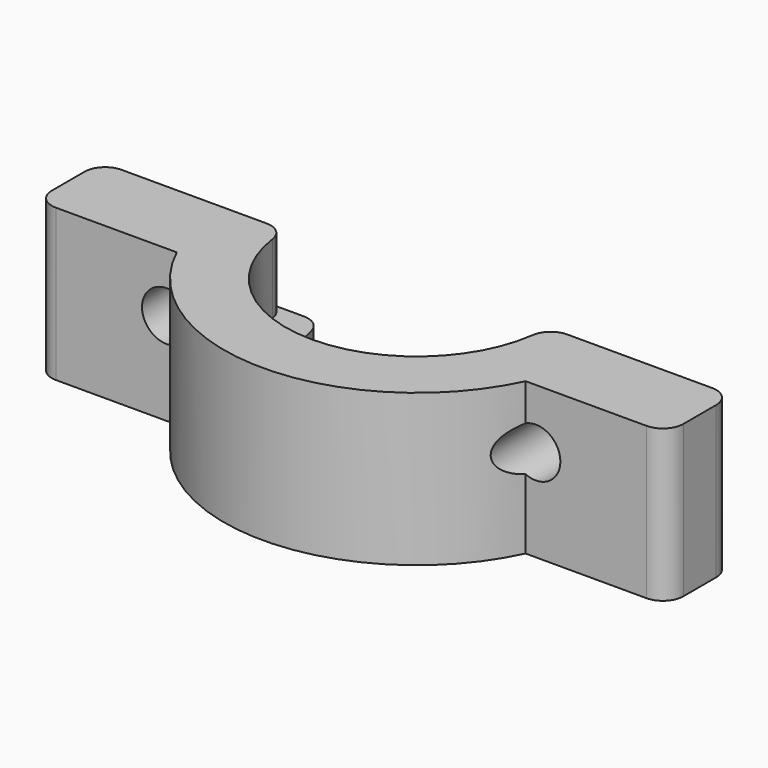
from build123d import *

# Parameters (mm, degrees)
F1_DEPTH = 9.398
F2_DEPTH = 5.08
F3_R     = 1.524
F4_DEPTH = 6.6633576407
F5_R     = 1.27


with BuildPart() as f1:
    # F0 (on Top) → F1 (new body)
    with BuildSketch(Plane.XY):
        with BuildLine():
            ThreePointArc((-10.8032145216, -5.08), (-11.6508501612, -2.6026014909), (-11.938, 0))
            Line((-11.938, 0), (-19.558, 0))
            Line((-19.558, 0), (-19.558, -5.08))
            Line((-19.558, -5.08), (-10.8032145216, -5.08))
        make_face()
        with BuildLine():
            ThreePointArc((8.128, 0), (0, -8.128), (-8.128, 0))
            Line((-8.128, 0), (-11.938, 0))
            ThreePointArc((-11.938, 0), (-11.6508501612, -2.6026014909), (-10.8032145216, -5.08))
            ThreePointArc((-10.8032145216, -5.08), (0, -11.938), (10.8032145216, -5.08))
            ThreePointArc((10.8032145216, -5.08), (11.6508501612, -2.6026014909), (11.938, 0))
            Line((11.938, 0), (8.128, 0))
        make_face()
        with BuildLine():
            Line((19.558, 0), (11.938, 0))
            ThreePointArc((11.938, 0), (11.6508501612, -2.6026014909), (10.8032145216, -5.08))
            Line((10.8032145216, -5.08), (19.558, -5.08))
            Line((19.558, -5.08), (19.558, 0))
        make_face()
    extrude(amount=F1_DEPTH)

    # F0 (on Top) → F2 (join)
    with BuildSketch(Plane.XY):
        with BuildLine():
            ThreePointArc((5.842, 0), (0, -5.842), (-5.842, 0))
            Line((-5.842, 0), (-8.128, 0))
            ThreePointArc((-8.128, 0), (0, -8.128), (8.128, 0))
            Line((8.128, 0), (5.842, 0))
        make_face()
    extrude(amount=F2_DEPTH)

    # F3 (on face) → F4 (cut, through all)
    with BuildSketch(Plane(origin=(0, 0, 0), x_dir=(-1, 0, 0), z_dir=(0, 1, 0))):
        with Locations((-11.43, 5.715)):
            Circle(F3_R)
        with Locations((11.43, 5.715)):
            Circle(F3_R)
    extrude(amount=-F4_DEPTH, mode=Mode.SUBTRACT)

    # F5
    f5_edges = [f1.edges().sort_by_distance(p)[0] for p in [
        (5.842, 0, 2.54),
        (-5.842, 0, 2.54),
        (8.128, 0, 7.239),
        (-8.128, 0, 7.239),
        (19.558, 0, 4.699),
        (19.558, -5.08, 4.699),
        (-19.558, 0, 4.699),
        (-19.558, -5.08, 4.699),
    ]]
    fillet(f5_edges, radius=F5_R)


solid = f1.part
